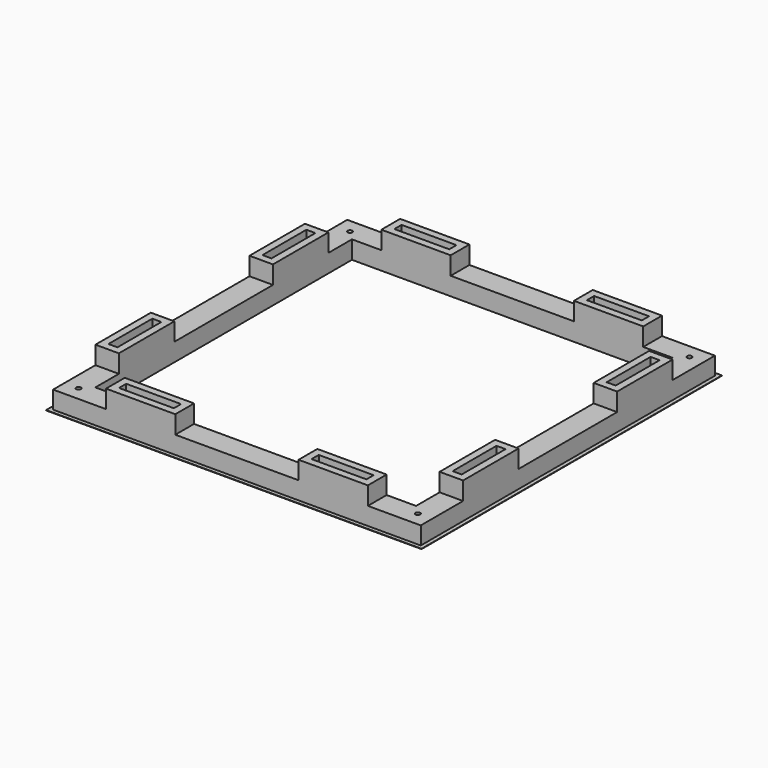
from build123d import *

# Parameters (mm, degrees)
SKETCH_R           = 0.65
PAD_DEPTH          = 5
SKETCH001_W        = 19.2
SKETCH001_H        = 6.5
SKETCH001_W_2      = 15.2
SKETCH001_H_2      = 2.5
SKETCH001_W_3      = 6.5
SKETCH001_H_3      = 19.2
SKETCH001_W_4      = 2.5
SKETCH001_H_4      = 15.2
PAD001_DEPTH       = 5
POLARPATTERN_COUNT = 4
SKETCH002_W        = 88.84
SKETCH002_H        = 88.84
POCKET_DEPTH       = 5.001
SKETCH003_W        = 135.310039
SKETCH003_H        = 121.25861
SKETCH003_W_2      = 101.84
SKETCH003_H_2      = 101.84
POCKET001_DEPTH    = 4.9


with BuildPart() as part:
    # Sketch → Pad (new body)
    with BuildSketch(Plane.XY):
        Polygon((-52.00016, -52.00016), (0, -52.00016), (0, -42.00016), (-34.929092, -42.00016), (0, -7.071068), (0, 0), (-7.071068, 0), (-42.00016, -34.929092), (-42.00016, 0), (-52.00016, 0), align=None)
        with Locations((-47.00016, -47.00016)):
            Circle(SKETCH_R, mode=Mode.SUBTRACT)
        with Locations((-26.67, -26.67)):
            Circle(SKETCH_R, mode=Mode.SUBTRACT)
    pad = extrude(amount=PAD_DEPTH)

    # Sketch001 (on Face14 of Pad) → Pad001 (join)
    with BuildSketch(Plane.XY.offset(5)):
        with Locations((-26.67, -47.67)):
            Rectangle(SKETCH001_W, SKETCH001_H)
        with Locations((-26.67, -47.67)):
            Rectangle(SKETCH001_W_2, SKETCH001_H_2, mode=Mode.SUBTRACT)
        with Locations((-47.67, -26.67)):
            Rectangle(SKETCH001_W_3, SKETCH001_H_3)
        with Locations((-47.67, -26.67)):
            Rectangle(SKETCH001_W_4, SKETCH001_H_4, mode=Mode.SUBTRACT)
    pad001 = extrude(amount=PAD001_DEPTH)

    # PolarPattern: Pad, Pad001 ×4 about axis
    polarpattern_axis = Axis((0, 0, 0), (0, 0, 1))
    for i in range(1, POLARPATTERN_COUNT):
        add(pad.rotate(polarpattern_axis, i * 360 / POLARPATTERN_COUNT))
        add(pad001.rotate(polarpattern_axis, i * 360 / POLARPATTERN_COUNT))

    # Sketch002 (on Face20 of PolarPattern) → Pocket (cut, through all)
    with BuildSketch(Plane.XY.offset(5)):
        Rectangle(SKETCH002_W, SKETCH002_H)
    extrude(amount=-POCKET_DEPTH, mode=Mode.SUBTRACT)

    # Sketch003 (on Face5 of Pocket) → Pocket001 (cut)
    with BuildSketch(Plane.XY.offset(5)):
        with Locations((8.080424, -2.412195)):
            Rectangle(SKETCH003_W, SKETCH003_H)
        Rectangle(SKETCH003_W_2, SKETCH003_H_2, mode=Mode.SUBTRACT)
    extrude(amount=-POCKET001_DEPTH, mode=Mode.SUBTRACT)


solid = part.part
